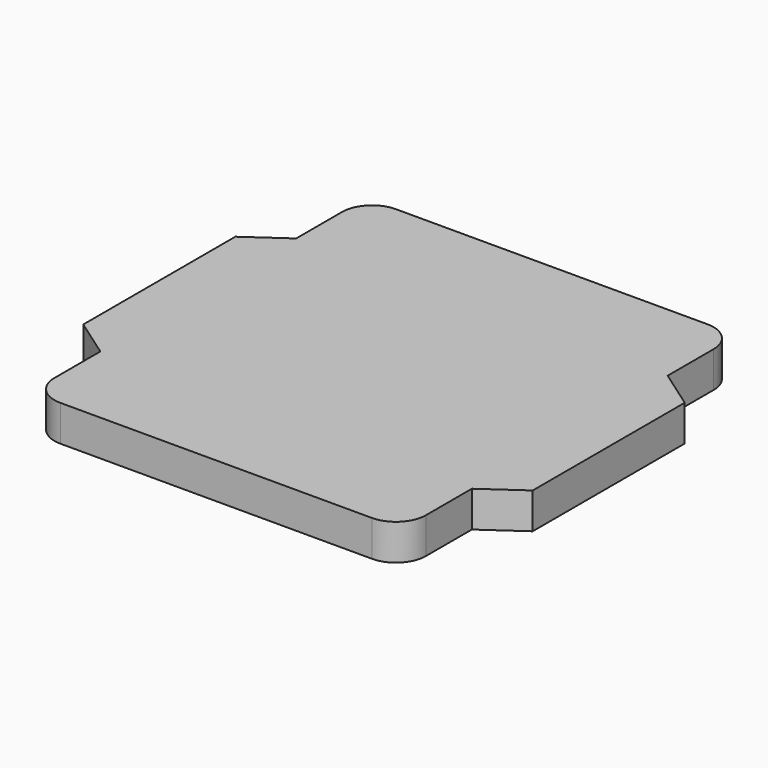
from build123d import *

# Parameters (mm, degrees)
F0_W     = 6.2
F0_H     = 7
F2_DEPTH = 0.6
F4_R     = 0.5


with BuildPart() as f2:
    # F1 (on Top) + F0 (on Top) → F2 (new body)
    with BuildSketch(Plane.XY):
        Polygon((1.025447, 3.5), (0, 3.5), (-1.025447, 3.5), (-3.75, 1.585766), (-3.75, 0), (-3.75, -1.585766), (-1.025447, -3.5), (0, -3.5), (1.025447, -3.5), (3.75, -1.585766), (3.75, 0), (3.75, 1.585766), align=None)
    with BuildSketch(Plane.XY):
        Rectangle(F0_W, F0_H)
    extrude(amount=F2_DEPTH)

    # F3: union 

    # F4
    f4_edges = [f2.edges().sort_by_distance(p)[0] for p in [
        (-3.1, 3.5, 0.3),
        (-3.1, -3.5, 0.3),
        (3.1, -3.5, 0.3),
        (3.1, 3.5, 0.3),
    ]]
    fillet(f4_edges, radius=F4_R)


solid = f2.part
